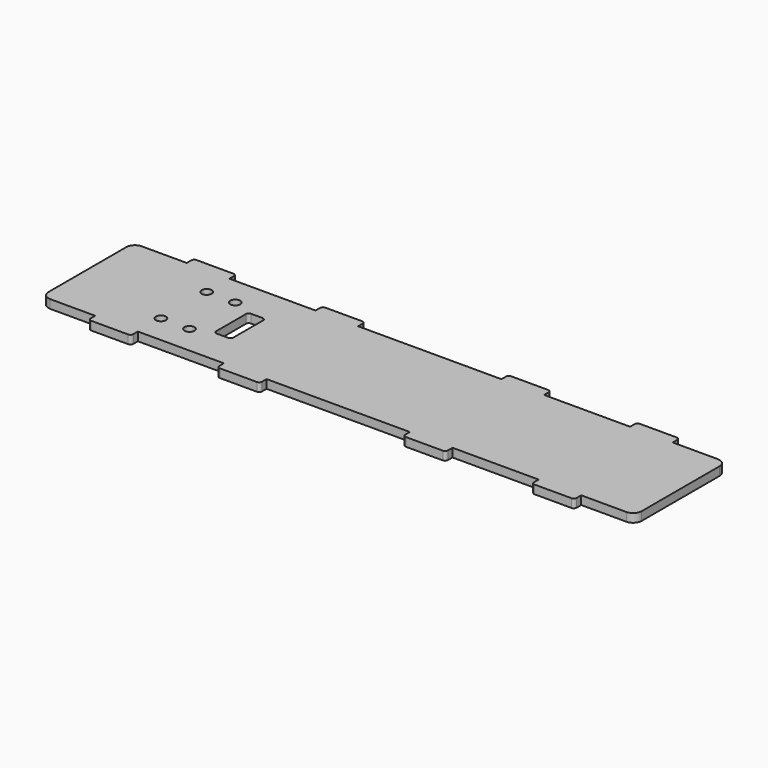
from build123d import *

# Parameters (mm, degrees)
SKETCH_R    = 1.75
SKETCH_W    = 6
SKETCH_H    = 15
PAD_DEPTH   = 3
FILLET_R    = 3
FILLET001_R = 1


with BuildPart() as part:
    # Sketch → Pad (new body)
    with BuildSketch(Plane.XY):
        Polygon((25.05, 23), (39.95, 23), (39.95, 20), (70.05, 20), (70.05, 23), (84.95, 23), (84.95, 20), (103.7, 20), (103.7, -20), (84.95, -20), (84.95, -23), (70.05, -23), (70.05, -20), (39.95, -20), (39.95, -23), (25.05, -23), (25.05, -20), (-25.05, -20), (-25.05, -23), (-39.95, -23), (-39.95, -20), (-70.05, -20), (-70.05, -23), (-84.95, -23), (-84.95, -20), (-103.7, -20), (-103.7, 20), (-84.95, 20), (-84.95, 23), (-70.05, 23), (-70.05, 20), (-39.95, 20), (-39.95, 23), (-25.05, 23), (-25.05, 20), (25.05, 20), align=None)
        with Locations((-70, 10)):
            Circle(SKETCH_R, mode=Mode.SUBTRACT)
        with Locations((-60, 10)):
            Circle(SKETCH_R, mode=Mode.SUBTRACT)
        with Locations((-70, -10)):
            Circle(SKETCH_R, mode=Mode.SUBTRACT)
        with Locations((-60, -10)):
            Circle(SKETCH_R, mode=Mode.SUBTRACT)
        with Locations((-50.463539, 0)):
            Rectangle(SKETCH_W, SKETCH_H, mode=Mode.SUBTRACT)
    extrude(amount=PAD_DEPTH)

    # Fillet
    fillet_edges = [part.edges().sort_by_distance(p)[0] for p in [
        (-103.7, 20, 1.5),
        (103.7, 20, 1.5),
        (103.7, -20, 1.5),
        (-103.7, -20, 1.5),
    ]]
    fillet(fillet_edges, radius=FILLET_R)

    # Fillet001
    fillet001_edges = [part.edges().sort_by_distance(p)[0] for p in [
        (-84.95, 23, 1.5),
        (-70.05, 23, 1.5),
        (-84.95, -23, 1.5),
        (-39.95, 23, 1.5),
        (-70.05, -23, 1.5),
        (-25.05, 23, 1.5),
        (-39.95, -23, 1.5),
        (25.05, 23, 1.5),
        (-25.05, -23, 1.5),
        (39.95, 23, 1.5),
        (25.05, -23, 1.5),
        (70.05, 23, 1.5),
        (39.95, -23, 1.5),
        (84.95, 23, 1.5),
        (70.05, -23, 1.5),
        (84.95, -23, 1.5),
        (-53.463539, -7.5, 1.5),
        (-53.463539, 7.5, 1.5),
        (-47.463539, -7.5, 1.5),
        (-47.463539, 7.5, 1.5),
    ]]
    fillet(fillet001_edges, radius=FILLET001_R)


solid = part.part
